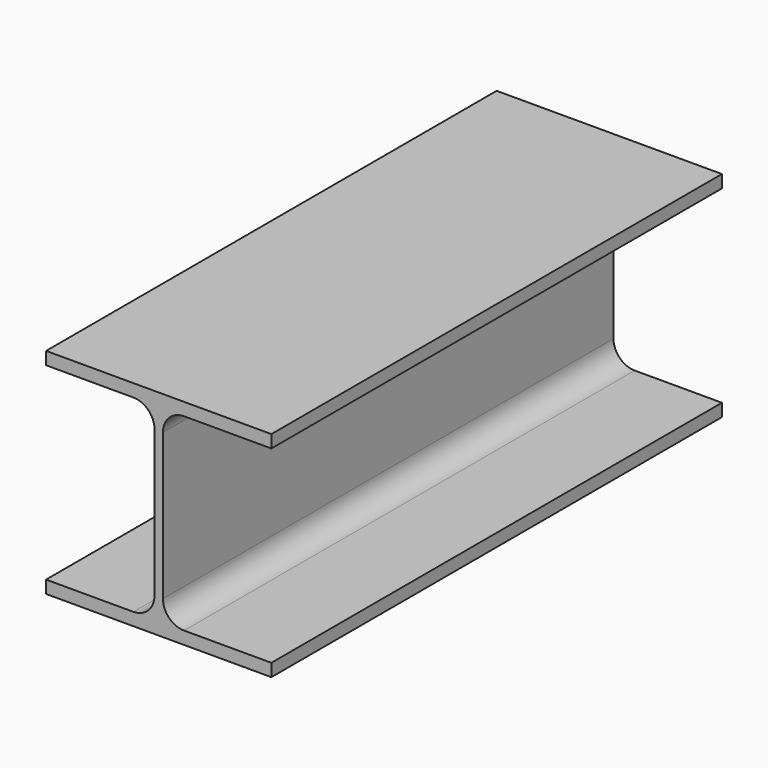
from build123d import *

# Parameters (mm, degrees)
F1_DEPTH = 400


with BuildPart() as f1:
    # F0 (on Front) → F1 (new body)
    with BuildSketch(Plane.XZ):
        with BuildLine():
            Line((-35.55349, -68.947688), (-97.55349, -68.947688))
            Line((-97.55349, -68.947688), (-97.55349, -77.947688))
            Line((-97.55349, -77.947688), (62.44651, -77.947688))
            Line((62.44651, -77.947688), (62.44651, -68.947688))
            Line((62.44651, -68.947688), (0.44651, -68.947688))
            ThreePointArc((0.44651, -68.947688), (-10.160092, -64.55429), (-14.55349, -53.947688))
            Line((-14.55349, -53.947688), (-14.55349, 50.052312))
            ThreePointArc((-14.55349, 50.052312), (-10.160092, 60.658913), (0.44651, 65.052312))
            Line((0.44651, 65.052312), (62.44651, 65.052312))
            Line((62.44651, 65.052312), (62.44651, 74.052312))
            Line((62.44651, 74.052312), (-97.55349, 74.052312))
            Line((-97.55349, 74.052312), (-97.55349, 65.052312))
            Line((-97.55349, 65.052312), (-35.55349, 65.052312))
            ThreePointArc((-35.55349, 65.052312), (-24.946889, 60.658913), (-20.55349, 50.052312))
            Line((-20.55349, 50.052312), (-20.55349, -53.947688))
            ThreePointArc((-20.55349, -53.947688), (-24.946889, -64.55429), (-35.55349, -68.947688))
        make_face()
    extrude(amount=F1_DEPTH)


solid = f1.part
